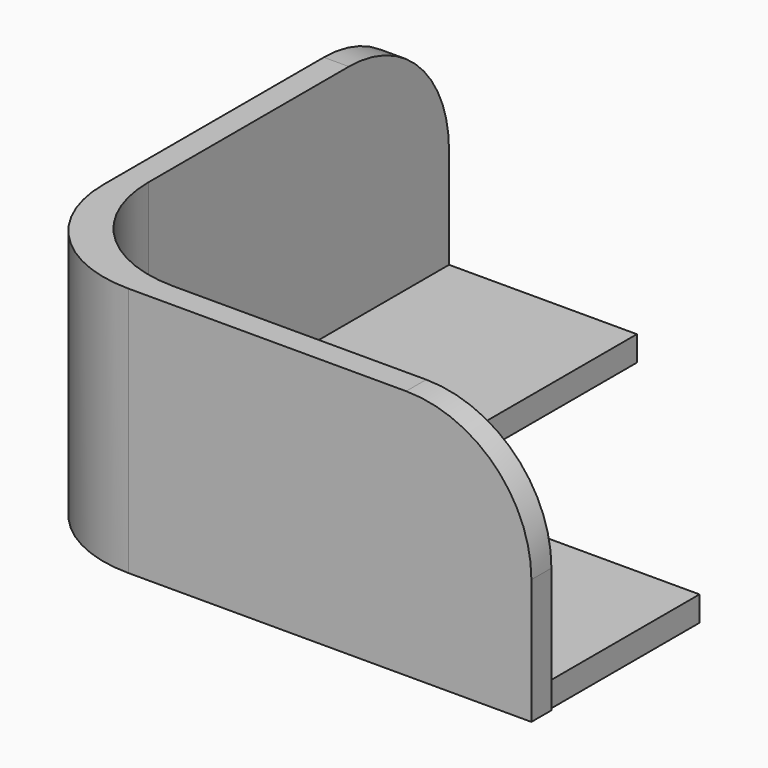
from build123d import *

# Parameters (mm, degrees)
F1_DEPTH = 2
F3_DEPTH = 20
F4_R     = 10


with BuildPart() as f1:
    # F0 (on Top) → F1 (new body)
    with BuildSketch(Plane.XY):
        Polygon((15, 40), (0, 40), (0, 0), (40, 0), (40, 15), (15, 15), align=None)
    extrude(amount=F1_DEPTH)

    # F2 (on Top) → F3 (join)
    with BuildSketch(Plane.XY):
        Polygon((0, 0), (0, 40), (-2, 40), (-2, -2), (40.175851, -2), (40.175851, 0), align=None)
    extrude(amount=F3_DEPTH)

    # F4
    f4_edges = [f1.edges().sort_by_distance(p)[0] for p in [
        (0, 0, 11),
        (15, 15, 1),
        (-2, -2, 10),
        (-1, 40, 20),
        (40.175851, -1, 20),
    ]]
    fillet(f4_edges, radius=F4_R)


solid = f1.part
